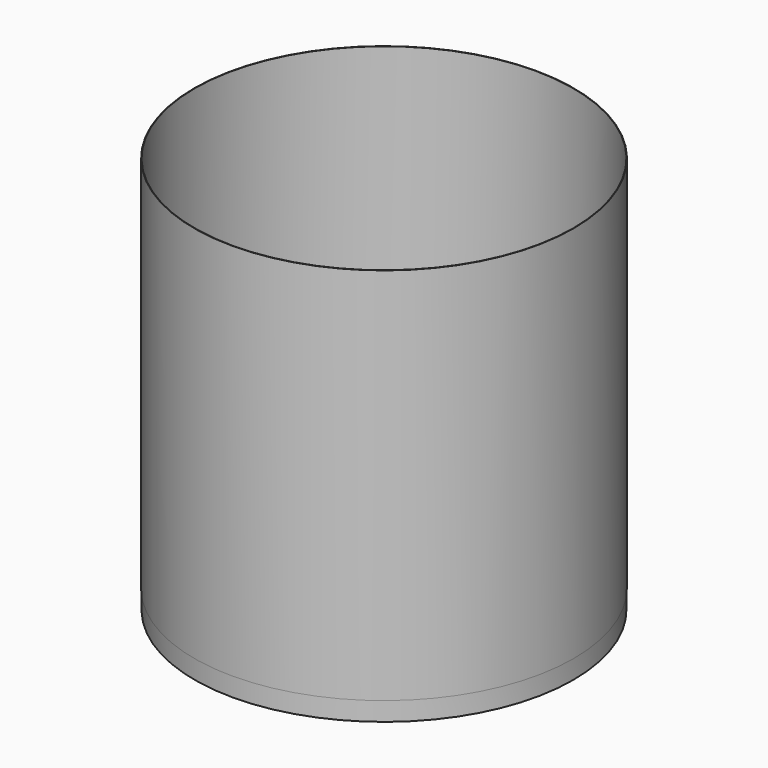
from build123d import *

# Parameters (mm, degrees)
F0_R     = 50
F1_DEPTH = 5
F2_R     = 50.094816
F2_R_2   = 50
F3_DEPTH = 100


with BuildPart() as f1:
    # F0 (on Top) → F1 (new body)
    with BuildSketch(Plane.XY):
        Circle(F0_R)
    extrude(amount=F1_DEPTH)


with BuildPart() as f3:
    # F2 (on face) → F3 (new body)
    with BuildSketch(Plane.XY.offset(5)):
        Circle(F2_R)
        Circle(F2_R_2, mode=Mode.SUBTRACT)
    extrude(amount=F3_DEPTH)


solid = Compound([f1.part, f3.part])
